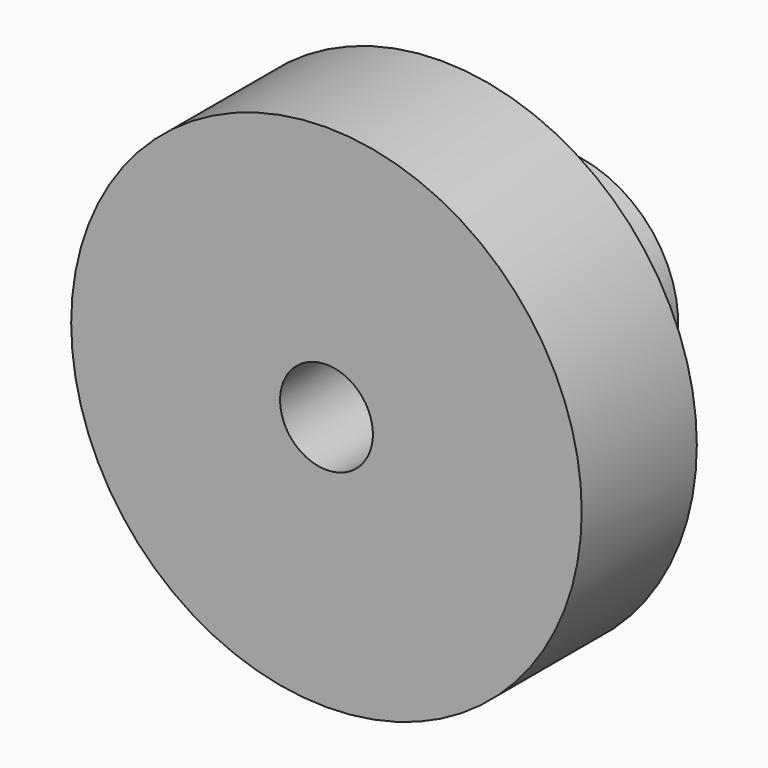
from build123d import *

# Parameters (mm, degrees)
F0_R     = 11
F1_DEPTH = 6.2
F2_R     = 5
F3_DEPTH = 6.5
F4_R     = 2
F5_DEPTH = 25


with BuildPart() as f1:
    # F0 (on Front) → F1 (new body)
    with BuildSketch(Plane.XZ):
        Circle(F0_R)
    extrude(amount=F1_DEPTH)

    # F2 (on face) → F3 (join)
    with BuildSketch(Plane(origin=(0, 0, 0), x_dir=(-1, 0, 0), z_dir=(0, 1, 0))):
        Circle(F2_R)
    extrude(amount=F3_DEPTH)

    # F4 (on face) → F5 (cut)
    with BuildSketch(Plane(origin=(0, 6.5, 0), x_dir=(-1, 0, 0), z_dir=(0, 1, 0))):
        Circle(F4_R)
    extrude(amount=-F5_DEPTH, mode=Mode.SUBTRACT)


solid = f1.part
